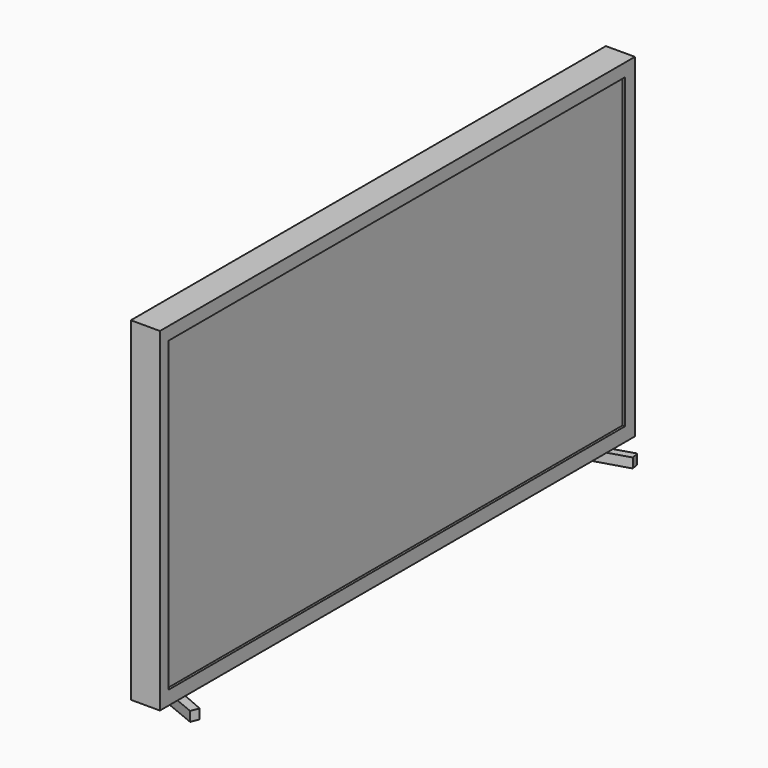
from build123d import *

# Parameters (mm, degrees)
SKETCH_W     = 1226
SKETCH_H     = 690
PAD_DEPTH    = 60
SKETCH001_W  = 1178.222099
SKETCH001_H  = 634.606854
POCKET_DEPTH = 5
SKETCH002_W  = 697.600952
SKETCH002_H  = 639.273081
PAD001_DEPTH = 20
PAD002_DEPTH = 20


with BuildPart() as part:
    # Sketch → Pad (new body)
    with BuildSketch(Plane.YZ):
        with Locations((613, 345)):
            Rectangle(SKETCH_W, SKETCH_H)
    extrude(amount=PAD_DEPTH)

    # Sketch001 (on Face6 of Pad) → Pocket (cut)
    with BuildSketch(Plane.YZ.offset(60)):
        with Locations((610.844516, 346.005472)):
            Rectangle(SKETCH001_W, SKETCH001_H)
    extrude(amount=-POCKET_DEPTH, mode=Mode.SUBTRACT)

    # Sketch002 (on Face4 of Pocket) → Pad001 (join)
    with BuildSketch(Plane(origin=(0, 0, 0), x_dir=(0, 1, 0), z_dir=(-1, 0, 0))):
        with Locations((619.926025, -343.598201)):
            Rectangle(SKETCH002_W, SKETCH002_H)
    extrude(amount=PAD001_DEPTH)

    # Sketch003 (on Face1 of Pad001) → Pad002 (join)
    with BuildSketch(Plane.YX):
        Polygon((87.634308, -42.883045), (29.457521, 98.781487), (45.932869, 105.38868), (106.168274, -33.616066), align=None)
        Polygon((1123.258545, -38.812469), (1166.333008, 103.550873), (1181.619751, 100.072845), (1138.033447, -42.506088), align=None)
    extrude(amount=PAD002_DEPTH)


solid = part.part
